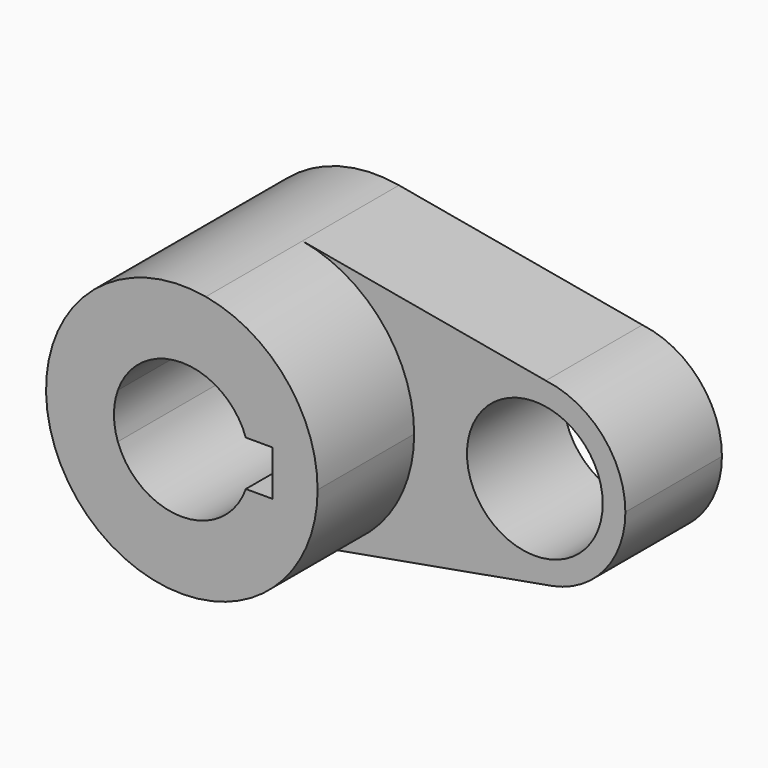
from build123d import *

# Parameters (mm, degrees)
F0_R     = 14.2875
F1_DEPTH = 25.4
F2_DEPTH = 50.8


with BuildPart() as f1:
    # F0 (on Front) → F1 (new body)
    with BuildSketch(Plane.XZ):
        with BuildLine():
            ThreePointArc((6.413419, -27.845981), (22.358377, -17.794201), (28.575, 0))
            ThreePointArc((28.575, 0), (21.921251, 18.330013), (5.058683, 28.123662))
            ThreePointArc((5.058683, 28.123662), (-28.566633, -0.691451), (6.413419, -27.845981))
        make_face()
        with BuildLine():
            ThreePointArc((-13.470384, 4.7625), (0, 14.2875), (13.470384, 4.7625))
            Line((13.470384, 4.7625), (19.05, 4.7625))
            Line((19.05, 4.7625), (19.05, -4.7625))
            Line((19.05, -4.7625), (13.470384, -4.7625))
            ThreePointArc((13.470384, -4.7625), (0, -14.2875), (-13.470384, -4.7625))
            Line((-13.470384, -4.7625), (-19.05, -4.7625))
            Line((-19.05, -4.7625), (-19.05, 4.7625))
            Line((-19.05, 4.7625), (-13.470384, 4.7625))
        make_face(mode=Mode.SUBTRACT)
        with BuildLine():
            ThreePointArc((-13.470384, -4.7625), (-14.2875, 0), (-13.470384, 4.7625))
            Line((-13.470384, 4.7625), (-19.05, 4.7625))
            Line((-19.05, 4.7625), (-19.05, -4.7625))
            Line((-19.05, -4.7625), (-13.470384, -4.7625))
        make_face()
        with BuildLine():
            ThreePointArc((5.058683, 28.123662), (21.921251, 18.330013), (28.575, 0))
            ThreePointArc((28.575, 0), (22.358377, -17.794201), (6.413419, -27.845981))
            Line((6.413419, -27.845981), (56.999016, -18.808451))
            ThreePointArc((56.999016, -18.808451), (34.928411, -0.360458), (56.285204, 18.909401))
            Line((56.285204, 18.909401), (5.058683, 28.123662))
        make_face()
        with BuildLine():
            ThreePointArc((73.025, 0), (68.238798, 12.627215), (56.285204, 18.909401))
            ThreePointArc((56.285204, 18.909401), (34.928411, -0.360458), (56.999016, -18.808451))
            Line((56.999016, -18.808451), (57.650748, -18.692014))
            ThreePointArc((57.650748, -18.692014), (68.687673, -12.101229), (73.025, 0))
        make_face()
        with Locations((53.975, 0)):
            Circle(F0_R, mode=Mode.SUBTRACT)
    extrude(amount=F1_DEPTH)

    # F0 (on Front) → F2 (join)
    with BuildSketch(Plane.XZ):
        with BuildLine():
            ThreePointArc((6.413419, -27.845981), (22.358377, -17.794201), (28.575, 0))
            ThreePointArc((28.575, 0), (21.921251, 18.330013), (5.058683, 28.123662))
            ThreePointArc((5.058683, 28.123662), (-28.566633, -0.691451), (6.413419, -27.845981))
        make_face()
        with BuildLine():
            ThreePointArc((-13.470384, 4.7625), (0, 14.2875), (13.470384, 4.7625))
            Line((13.470384, 4.7625), (19.05, 4.7625))
            Line((19.05, 4.7625), (19.05, -4.7625))
            Line((19.05, -4.7625), (13.470384, -4.7625))
            ThreePointArc((13.470384, -4.7625), (0, -14.2875), (-13.470384, -4.7625))
            Line((-13.470384, -4.7625), (-19.05, -4.7625))
            Line((-19.05, -4.7625), (-19.05, 4.7625))
            Line((-19.05, 4.7625), (-13.470384, 4.7625))
        make_face(mode=Mode.SUBTRACT)
        with BuildLine():
            ThreePointArc((-13.470384, -4.7625), (-14.2875, 0), (-13.470384, 4.7625))
            Line((-13.470384, 4.7625), (-19.05, 4.7625))
            Line((-19.05, 4.7625), (-19.05, -4.7625))
            Line((-19.05, -4.7625), (-13.470384, -4.7625))
        make_face()
    extrude(amount=F2_DEPTH)


solid = f1.part
